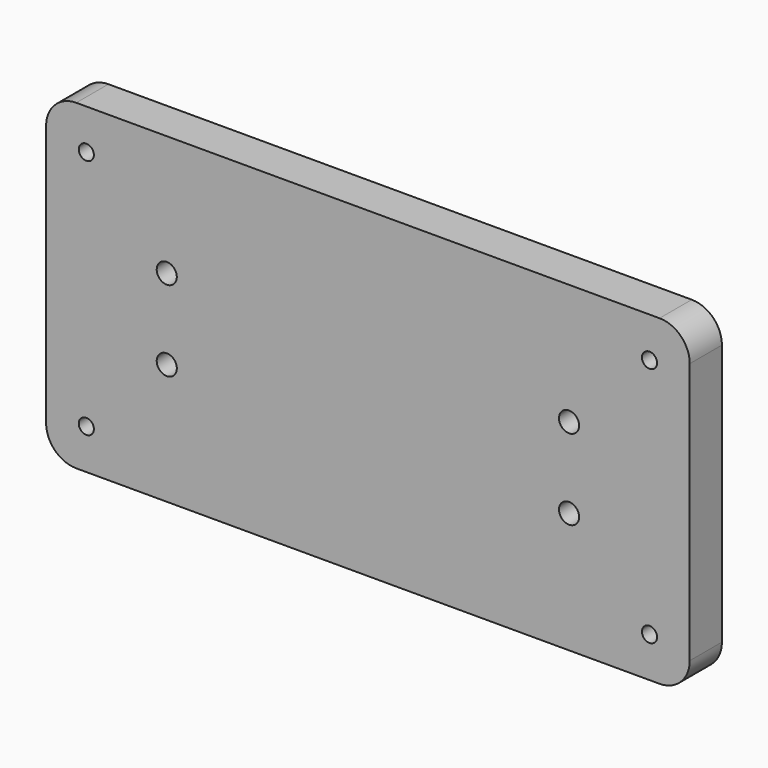
from build123d import *

# Parameters (mm, degrees)
F0_W     = 203.2
F0_H     = 101.6
F1_DEPTH = 12.7
F2_R     = 9.525
F4_D     = 4.7752
F6_D     = 6.35


with BuildPart() as f1:
    # F0 (on Front) → F1 (new body)
    with BuildSketch(Plane.XZ):
        with Locations((1.381071, 8.273321)):
            Rectangle(F0_W, F0_H)
    extrude(amount=F1_DEPTH)

    # F2
    f2_edges = [f1.edges().sort_by_distance(p)[0] for p in [
        (-100.218929, -6.35, 59.073321),
        (102.981071, -6.35, 59.073321),
        (102.981071, -6.35, -42.526679),
        (-100.218929, -6.35, -42.526679),
    ]]
    fillet(f2_edges, radius=F2_R)

    # F4 (through all)
    with Locations(Plane.XZ.offset(12.7)):
        with Locations((-87.518929, 46.373321), (-87.518929, -29.826679), (90.281071, 46.373321), (90.281071, -29.826679)):
            Hole(F4_D / 2)

    # F6 (through all)
    with Locations(Plane.XZ.offset(12.7)):
        with Locations((-62.118929, 20.973321), (-62.118929, -4.426679), (64.881071, -4.426679), (64.881071, 20.973321)):
            Hole(F6_D / 2)


solid = f1.part
